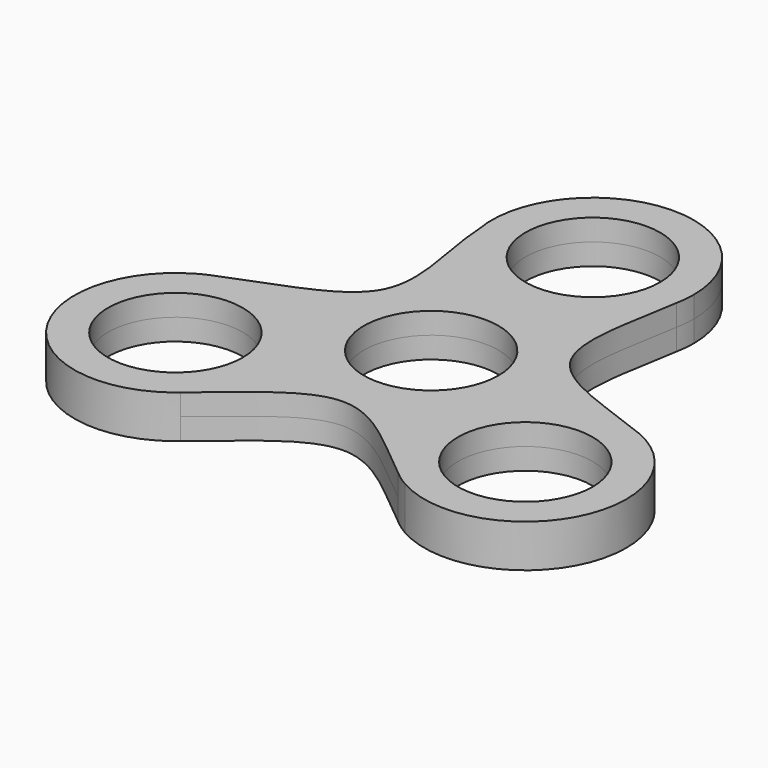
from build123d import *

# Parameters (mm, degrees)
F0_R     = 11
F1_DEPTH = 3.5


with BuildPart() as f1:
    # F0 (on Top) → F1 (new body, symmetric)
    with BuildSketch(Plane.XY):
        with BuildLine():
            ThreePointArc((-10.832885076, 31.0898696499), (-0.9587129631, 43.9581412832), (11.0000002071, 32.9999996042))
            ThreePointArc((11.0000002071, 32.9999996042), (2.8470097033, 22.374815515), (-9.5262792345, 27.4999996042))
            Line((-9.5262792345, 27.4999996042), (-14.2894189553, 24.7499996042))
            ThreePointArc((-14.2894189553, 24.7499996042), (-8.2499997689, 18.7105804279), (2.626e-07, 16.4999996042))
            ThreePointArc((2.626e-07, 16.4999996042), (10.4921844002, 20.2656338619), (16.1953106147, 29.8437485367))
            add(Edge.make_bspline(
                [(16.5000002071, 32.9999996042), (16.4469554908, 31.9759280732), (16.3380691641, 30.9196163733), (16.1953106147, 29.8437485367)],
                knots=[0, 0, 0, 0, 0.0634824471, 0.0634824471, 0.0634824471, 0.0634824471], degree=3))
            ThreePointArc((16.5000002071, 32.9999996042), (-1.4380695482, 49.4372121227), (-16.2493277176, 30.1348046727))
            Line((-16.2493277176, 30.1348046727), (-10.832885076, 31.0898696499))
        make_face()
        with BuildLine():
            ThreePointArc((-9.5262792345, 27.4999996042), (-10.3366186215, 29.2377780276), (-10.832885076, 31.0898696499))
            Line((-10.832885076, 31.0898696499), (-16.2493277176, 30.1348046727))
            ThreePointArc((-16.2493277176, 30.1348046727), (-15.5049280358, 27.3566672393), (-14.2894189553, 24.7499996042))
            Line((-14.2894189553, 24.7499996042), (-9.5262792345, 27.4999996042))
        make_face()
        with BuildLine():
            ThreePointArc((-14.2894189553, 24.7499996042), (-15.5049280358, 27.3566672393), (-16.2493277176, 30.1348046727))
            add(Edge.make_bspline(
                [(-16.2493277176, 30.1348046727), (-15.8448357458, 22.3257571132), (-9.3676974813, 6.3629064953), (-27.1297715865, 2.0621537708), (-34.2251232507, -0.9961471909)],
                knots=[0, 0, 0, 0, 0.484084787, 0.9420725108, 0.9420725108, 0.9420725108, 0.9420725108], degree=3))
            ThreePointArc((-34.2251232507, -0.9961471909), (-22.9369822413, -0.9945348346), (-14.2894189847, -8.2500003449))
            ThreePointArc((-14.2894189847, -8.2500003449), (-14.2894189268, 8.2499996537), (2.626e-07, 16.4999996042))
            ThreePointArc((2.626e-07, 16.4999996042), (-8.2499997689, 18.7105804279), (-14.2894189553, 24.7499996042))
        make_face()
        with BuildLine():
            ThreePointArc((16.1953106147, 29.8437485367), (16.4236511673, 31.4145377985), (16.5000002071, 32.9999996042))
            add(Edge.make_bspline(
                [(16.5000002071, 32.9999996042), (16.4469554908, 31.9759280732), (16.3380691641, 30.9196163733), (16.1953106147, 29.8437485367)],
                knots=[0, 0, 0, 0, 0.0634824471, 0.0634824471, 0.0634824471, 0.0634824471], degree=3))
        make_face()
        with BuildLine():
            add(Edge.make_bspline(
                [(-34.2251232507, -0.9961471909), (-35.1225619489, -1.3829691222), (-35.9953693099, -1.7852688783), (-36.8288381178, -2.2105812333)],
                knots=[0.9420725108, 0.9420725108, 0.9420725108, 0.9420725108, 1, 1, 1, 1], degree=3))
            ThreePointArc((-34.2251232507, -0.9961471909), (-35.5534633862, -1.5465859909), (-36.8288381178, -2.2105812333))
        make_face()
        with BuildLine():
            ThreePointArc((-14.2894189847, -8.2500003449), (-22.9369822413, -0.9945348346), (-34.2251232507, -0.9961471909))
            add(Edge.make_bspline(
                [(-34.2251232507, -0.9961471909), (-35.1225619489, -1.3829691222), (-35.9953693099, -1.7852688783), (-36.8288381178, -2.2105812333)],
                knots=[0.9420725108, 0.9420725108, 0.9420725108, 0.9420725108, 1, 1, 1, 1], degree=3))
            ThreePointArc((-36.8288381178, -2.2105812333), (-42.8682572802, -24.7500003958), (-20.3288381178, -30.7894195582))
            add(Edge.make_bspline(
                [(-20.3288381178, -30.7894195582), (-19.4684885148, -30.2314457208), (-18.6081389117, -29.6089915458), (-17.7477893087, -28.9474250972)],
                knots=[0, 0, 0, 0, 0.0634824471, 0.0634824471, 0.0634824471, 0.0634824471], degree=3))
            ThreePointArc((-17.7477893087, -28.9474250972), (-13.5628082605, -23.3387756754), (-12.0788381178, -16.5000003958))
            ThreePointArc((-12.0788381178, -16.5000003958), (-12.6410619916, -12.2294861232), (-14.2894189847, -8.2500003449))
        make_face()
        with Locations((-28.5788381178, -16.5000003958)):
            Circle(F0_R, mode=Mode.SUBTRACT)
        with BuildLine():
            ThreePointArc((16.1953106147, 29.8437485367), (10.4921844002, 20.2656338619), (2.626e-07, 16.4999996042))
            ThreePointArc((2.626e-07, 16.4999996042), (11.6672621163, 11.6672614742), (16.5000002071, -3.958e-07))
            ThreePointArc((16.5000002071, -3.958e-07), (15.9377763384, -4.2705146494), (14.2894193598, -8.2500004128))
            ThreePointArc((14.2894193598, -8.2500004128), (22.7966463595, -1.0463194854), (33.9431001306, -0.8963246269))
            add(Edge.make_bspline(
                [(16.1953106147, 29.8437485367), (15.2136752902, 22.4458737481), (10.0473098217, 5.8008165148), (27.0455349675, 1.9524916391), (33.9431001306, -0.8963246269)],
                knots=[0.0634824471, 0.0634824471, 0.0634824471, 0.0634824471, 0.5, 0.9365175529, 0.9365175529, 0.9365175529, 0.9365175529], degree=3))
        make_face()
        with BuildLine():
            ThreePointArc((14.2894193598, -8.2500004128), (1.679e-07, -16.5000003958), (-14.2894189847, -8.2500003449))
            ThreePointArc((-14.2894189847, -8.2500003449), (-12.6410619916, -12.2294861232), (-12.0788381178, -16.5000003958))
            ThreePointArc((-12.0788381178, -16.5000003958), (-13.5628082605, -23.3387756754), (-17.7477893087, -28.9474250972))
            add(Edge.make_bspline(
                [(-17.7477893087, -28.9474250972), (-11.8318594701, -24.3983665746), (2.071e-07, -11.6016342169), (11.8318598844, -24.3983665746), (17.747789723, -28.9474250972)],
                knots=[0.0634824471, 0.0634824471, 0.0634824471, 0.0634824471, 0.5, 0.9365175529, 0.9365175529, 0.9365175529, 0.9365175529], degree=3))
            ThreePointArc((17.747789723, -28.9474250972), (12.3044621986, -19.2193155594), (14.2894193598, -8.2500004128))
        make_face()
        with BuildLine():
            add(Edge.make_bspline(
                [(33.9431001306, -0.8963246269), (34.9462082829, -1.3106260149), (35.9154442126, -1.7444835397), (36.828838532, -2.2105812333)],
                knots=[0.9365175529, 0.9365175529, 0.9365175529, 0.9365175529, 1, 1, 1, 1], degree=3))
            ThreePointArc((33.9431001306, -0.8963246269), (22.7966463595, -1.0463194854), (14.2894193598, -8.2500004128))
            ThreePointArc((14.2894193598, -8.2500004128), (12.3044621986, -19.2193155594), (17.747789723, -28.9474250972))
            add(Edge.make_bspline(
                [(17.747789723, -28.9474250972), (18.608139326, -29.6089915458), (19.468488929, -30.2314457208), (20.328838532, -30.7894195582)],
                knots=[0.9365175529, 0.9365175529, 0.9365175529, 0.9365175529, 1, 1, 1, 1], degree=3))
            ThreePointArc((20.328838532, -30.7894195582), (36.828838532, -30.7894195582), (45.078838532, -16.5000003958))
            ThreePointArc((45.078838532, -16.5000003958), (42.8682576945, -8.2500003958), (36.828838532, -2.2105812333))
        make_face()
        with Locations((28.578838532, -16.5000003958)):
            Circle(F0_R, mode=Mode.SUBTRACT)
        with BuildLine():
            ThreePointArc((36.828838532, -2.2105812333), (35.4176138117, -1.4839705385), (33.9431001306, -0.8963246269))
            add(Edge.make_bspline(
                [(33.9431001306, -0.8963246269), (34.9462082829, -1.3106260149), (35.9154442126, -1.7444835397), (36.828838532, -2.2105812333)],
                knots=[0.9365175529, 0.9365175529, 0.9365175529, 0.9365175529, 1, 1, 1, 1], degree=3))
        make_face()
        with BuildLine():
            add(Edge.make_bspline(
                [(-20.3288381178, -30.7894195582), (-19.4684885148, -30.2314457208), (-18.6081389117, -29.6089915458), (-17.7477893087, -28.9474250972)],
                knots=[0, 0, 0, 0, 0.0634824471, 0.0634824471, 0.0634824471, 0.0634824471], degree=3))
            ThreePointArc((-20.3288381178, -30.7894195582), (-18.9939624372, -29.9305684474), (-17.7477893087, -28.9474250972))
        make_face()
        with BuildLine():
            add(Edge.make_bspline(
                [(17.747789723, -28.9474250972), (18.608139326, -29.6089915458), (19.468488929, -30.2314457208), (20.328838532, -30.7894195582)],
                knots=[0.9365175529, 0.9365175529, 0.9365175529, 0.9365175529, 1, 1, 1, 1], degree=3))
            ThreePointArc((17.747789723, -28.9474250972), (18.9939628515, -29.9305684474), (20.328838532, -30.7894195582))
        make_face()
        with BuildLine():
            ThreePointArc((16.5000002071, -3.958e-07), (11.6672621163, 11.6672614742), (2.626e-07, 16.4999996042))
            ThreePointArc((2.626e-07, 16.4999996042), (-14.2894189268, 8.2499996537), (-14.2894189847, -8.2500003449))
            ThreePointArc((-14.2894189847, -8.2500003449), (1.679e-07, -16.5000003958), (14.2894193598, -8.2500004128))
            ThreePointArc((14.2894193598, -8.2500004128), (15.9377763384, -4.2705146494), (16.5000002071, -3.958e-07))
        make_face()
        with Locations((2.071e-07, -3.958e-07)):
            Circle(F0_R, mode=Mode.SUBTRACT)
    extrude(amount=F1_DEPTH, both=True)


solid = f1.part
